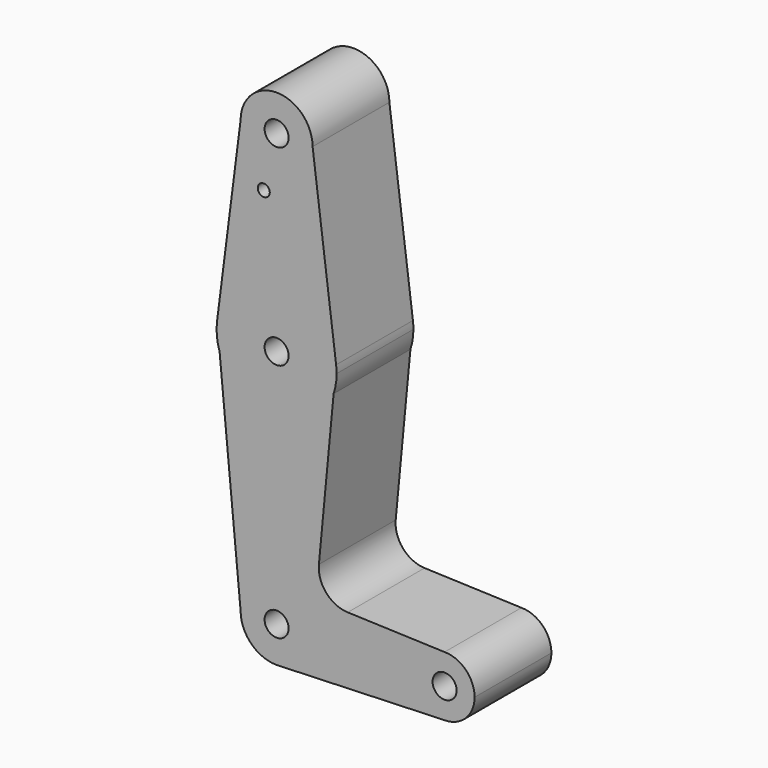
from build123d import *

# Parameters (mm, degrees)
F0_R     = 3.175
F0_R_2   = 1.5875
F1_DEPTH = 25.4


with BuildPart() as f1:
    # F0 (on Front) → F1 (new body)
    with BuildSketch(Plane.XZ):
        with BuildLine():
            ThreePointArc((15.0877196672, 58.5627598555), (15.6769444522, 61.0001924791), (15.875, 63.5))
            ThreePointArc((15.875, 63.5), (15.8430821396, 64.5061676396), (15.7474569047, 65.5082893304))
            Line((15.7474569047, 65.5082893304), (15.0877196672, 58.5627598555))
        make_face()
        with BuildLine():
            Line((15.0877196672, 58.5627598555), (15.7474569047, 65.5082893304))
            ThreePointArc((15.7474569047, 65.5082893304), (0, 79.375), (-15.7474569047, 65.5082893304))
            Line((-15.7474569047, 65.5082893304), (-15.0877196672, 58.5627598555))
            ThreePointArc((-15.0877196672, 58.5627598555), (0, 47.625), (15.0877196672, 58.5627598555))
        make_face()
        with Locations((0, 63.5)):
            Circle(F0_R, mode=Mode.SUBTRACT)
        with BuildLine():
            ThreePointArc((-15.7474569047, 65.5082893304), (0, 79.375), (15.7474569047, 65.5082893304))
            Line((15.7474569047, 65.5082893304), (9.525, 114.3))
            ThreePointArc((9.525, 114.3), (0, 104.775), (-9.525, 114.3))
            Line((-9.525, 114.3), (-15.7474569047, 65.5082893304))
        make_face()
        with Locations((-3.3911804203, 99.949)):
            Circle(F0_R_2, mode=Mode.SUBTRACT)
        with BuildLine():
            Line((11.1919966494, 17.549675393), (15.0877196672, 58.5627598555))
            ThreePointArc((15.0877196672, 58.5627598555), (0, 47.625), (-15.0877196672, 58.5627598555))
            Line((-15.0877196672, 58.5627598555), (-9.525, 0))
            ThreePointArc((-9.525, 0), (0, 9.525), (9.525, 0))
            ThreePointArc((9.525, 0), (6.9712901065, -6.4905114784), (0.6794904459, -9.5007324841))
            Line((0.6794904459, -9.5007324841), (44.45, -7.9375))
            ThreePointArc((44.45, -7.9375), (36.5125, 0), (44.45, 7.9375))
            Line((44.45, 7.9375), (18.8228170321, 8.8527565346))
            ThreePointArc((18.8228170321, 8.8527565346), (13.130598856, 11.5544736108), (11.1919966494, 17.549675393))
        make_face()
        with BuildLine():
            Line((-15.0877196672, 58.5627598555), (-15.7474569047, 65.5082893304))
            ThreePointArc((-15.7474569047, 65.5082893304), (-15.8038641944, 61.9988332792), (-15.0877196672, 58.5627598555))
        make_face()
        with BuildLine():
            ThreePointArc((-9.525, 114.3), (0, 104.775), (9.525, 114.3))
            ThreePointArc((9.525, 114.3), (0, 123.825), (-9.525, 114.3))
        make_face()
        with Locations((0, 114.3)):
            Circle(F0_R, mode=Mode.SUBTRACT)
        with BuildLine():
            ThreePointArc((9.525, 0), (0, 9.525), (-9.525, 0))
            ThreePointArc((-9.525, 0), (-6.7351920908, -6.7351920908), (0, -9.525))
            Line((0, -9.525), (0.6794904459, -9.5007324841))
            ThreePointArc((0.6794904459, -9.5007324841), (6.9712901065, -6.4905114784), (9.525, 0))
        make_face()
        Circle(F0_R, mode=Mode.SUBTRACT)
        with BuildLine():
            Line((0.6794904459, -9.5007324841), (0, -9.525))
            ThreePointArc((0, -9.525), (0.3399618281, -9.5189311877), (0.6794904459, -9.5007324841))
        make_face()
        with BuildLine():
            ThreePointArc((52.3875, 0), (50.0626600757, 5.6126600757), (44.45, 7.9375))
            ThreePointArc((44.45, 7.9375), (36.5125, 0), (44.45, -7.9375))
            ThreePointArc((44.45, -7.9375), (50.0626600757, -5.6126600757), (52.3875, 0))
        make_face()
        with Locations((44.45, 0)):
            Circle(F0_R, mode=Mode.SUBTRACT)
    extrude(amount=F1_DEPTH)


solid = f1.part
